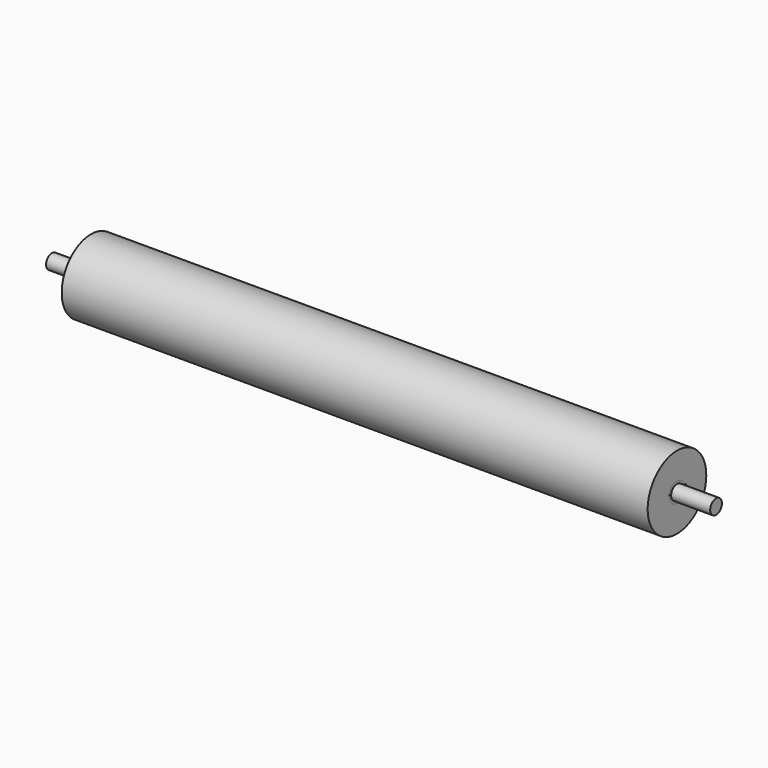
from build123d import *

# Parameters (mm, degrees)
F0_R      = 75
F1_DEPTH  = 600
F2_R      = 20
F3_DEPTH  = 100
F4_R      = 20
F5_DEPTH  = 100
F6_W      = 4.221216
F6_H      = 12
F7_DEPTH  = 75
F8_R      = 20
F9_DEPTH  = 100
F10_R     = 15
F11_DEPTH = 80
F14_DEPTH = 8.8


with BuildPart() as f1:
    # F0 (on Right) → F1 (new body, symmetric)
    with BuildSketch(Plane.YZ):
        Circle(F0_R)
    extrude(amount=F1_DEPTH, both=True)

    # F2 (on face) → F3 (cut)
    with BuildSketch(Plane(origin=(-600, 0, 0), x_dir=(0, -1, 0), z_dir=(-1, 0, 0))):
        Circle(F2_R)
    extrude(amount=-F3_DEPTH, mode=Mode.SUBTRACT)

    # F4 (on face) → F5 (cut)
    with BuildSketch(Plane.YZ.offset(600)):
        Circle(F4_R)
    extrude(amount=-F5_DEPTH, mode=Mode.SUBTRACT)

    # F6 (on face) → F7 (cut)
    with BuildSketch(Plane.YZ.offset(600)):
        with Locations((21.189392, 0)):
            Rectangle(F6_W, F6_H)
    extrude(amount=-F7_DEPTH, mode=Mode.SUBTRACT)


with BuildPart() as f9:
    # F8 (on face) → F9 (new body)
    with BuildSketch(Plane.YZ.offset(500)):
        Circle(F8_R)
    extrude(amount=F9_DEPTH)

    # F10 (on face) → F11 (join)
    with BuildSketch(Plane.YZ.offset(600)):
        Circle(F10_R)
    extrude(amount=F11_DEPTH)


with BuildPart() as f12_1:
    # F12: instance of F9
    add(f9.part.mirror(Plane.YZ))


with BuildPart() as f14_tool:
    # F13 (on face) → F14 (new body)
    with BuildSketch(Plane.XZ.offset(-23.3)):
        with BuildLine():
            ThreePointArc((525, 6), (519, 0), (525, -6))
            Line((525, -6), (575, -6))
            ThreePointArc((575, -6), (581, 0), (575, 6))
            Line((575, 6), (525, 6))
        make_face()
    extrude(amount=F14_DEPTH)


with BuildPart() as f1_1:
    add(f1.part)

    # F14: cut by f14_tool
    add(f14_tool.part, mode=Mode.SUBTRACT)


with BuildPart() as f9_1:
    add(f9.part)

    # F14: cut by f14_tool
    add(f14_tool.part, mode=Mode.SUBTRACT)


solid = Compound([f12_1.part, f1_1.part, f9_1.part])
